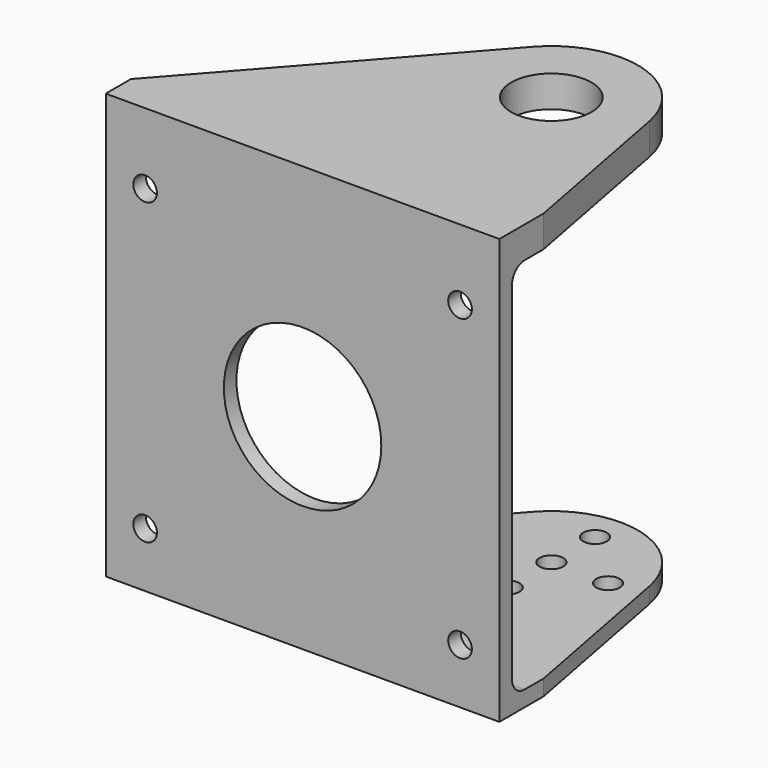
from build123d import *

# Parameters (mm, degrees)
SKETCH_W     = 50
SKETCH_H     = 48
SKETCH_R     = 1.5
SKETCH_R_2   = 10
PAD_DEPTH    = 2
SKETCH003_R  = 1.5
PAD001_DEPTH = 2
SKETCH004_R  = 5.1
PAD002_DEPTH = 4
FILLET_R     = 1.99
FILLET001_R  = 1.99


with BuildPart() as part:
    # Sketch → Pad (new body)
    with BuildSketch(Plane.XZ):
        Rectangle(SKETCH_W, SKETCH_H)
        with Locations((-20, 19)):
            Circle(SKETCH_R, mode=Mode.SUBTRACT)
        with Locations((20, 19)):
            Circle(SKETCH_R, mode=Mode.SUBTRACT)
        with Locations((-20, -19)):
            Circle(SKETCH_R, mode=Mode.SUBTRACT)
        with Locations((20, -19)):
            Circle(SKETCH_R, mode=Mode.SUBTRACT)
        Circle(SKETCH_R_2, mode=Mode.SUBTRACT)
    extrude(amount=PAD_DEPTH)

    # Sketch003 (on Face3 of Pad) → Pad001 (join)
    with BuildSketch(Plane(origin=(0, 0, -24), x_dir=(1, 0, 0), z_dir=(0, 0, -1))):
        with BuildLine():
            Line((-25, 0), (-25, 2))
            Line((-25, 2), (25, 2))
            Line((25, 2), (25, 0))
            Line((25, 0), (25, -5))
            Line((25, -5), (20.80638, -27.054785))
            ThreePointArc((1.756653, -32.283353), (12.911489, -35.607697), (20.80638, -27.054785))
            Line((-25, -2), (1.756653, -32.283353))
            Line((-25, 0), (-25, -2))
        make_face()
        with Locations((10, -31.934549)):
            Circle(SKETCH003_R, mode=Mode.SUBTRACT)
        with Locations((17.205, -25)):
            Circle(SKETCH003_R, mode=Mode.SUBTRACT)
        with Locations((10, -25)):
            Circle(SKETCH003_R, mode=Mode.SUBTRACT)
        with Locations((2.795, -25)):
            Circle(SKETCH003_R, mode=Mode.SUBTRACT)
        with Locations((10, -18.065451)):
            Circle(SKETCH003_R, mode=Mode.SUBTRACT)
    extrude(amount=PAD001_DEPTH)

    # Sketch004 (on Face1 of Pad) → Pad002 (join)
    with BuildSketch(Plane(origin=(0, 0, 24), x_dir=(-1, 0, 0), z_dir=(0, 0, 1))):
        with BuildLine():
            Line((-25, 2), (25, 2))
            Line((25, 2), (25, 0))
            Line((25, 0), (25, -2))
            Line((25, -2), (-1.756653, -32.283353))
            ThreePointArc((-20.80638, -27.054785), (-12.911489, -35.607697), (-1.756653, -32.283353))
            Line((-25, -5), (-20.80638, -27.054785))
            Line((-25, 0), (-25, -5))
            Line((-25, 0), (-25, 2))
        make_face()
        with Locations((-10, -25)):
            Circle(SKETCH004_R, mode=Mode.SUBTRACT)
    extrude(amount=PAD002_DEPTH)

    # Fillet
    fillet_edges = [part.edges().sort_by_distance(p)[0] for p in [
        (0, 0, 24),
    ]]
    fillet(fillet_edges, radius=FILLET_R)

    # Fillet001
    fillet001_edges = [part.edges().sort_by_distance(p)[0] for p in [
        (0, 0, -24),
    ]]
    fillet(fillet001_edges, radius=FILLET001_R)


solid = part.part
